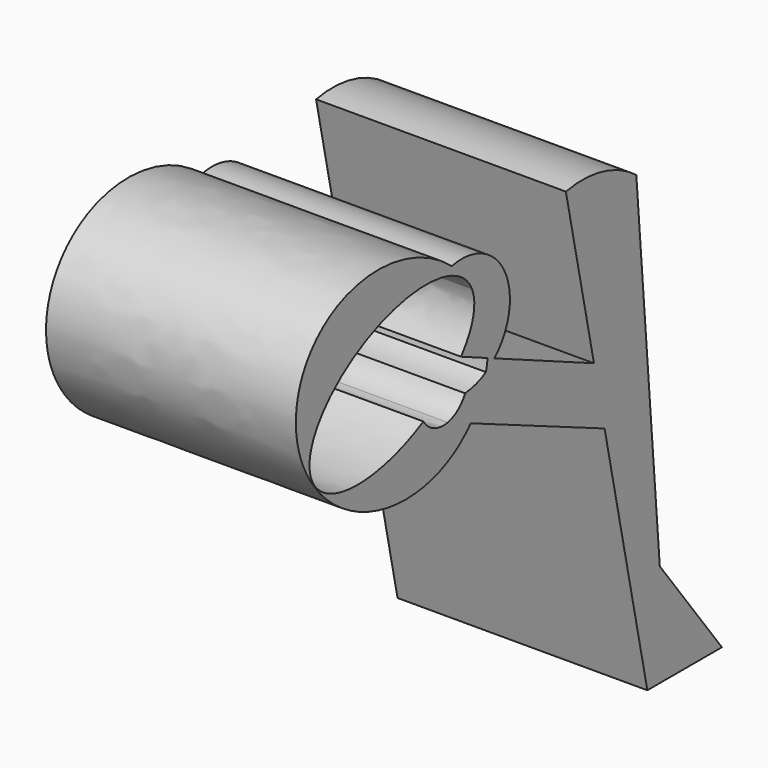
from build123d import *

# Parameters (mm, degrees)
F1_DEPTH = 134.366


with BuildPart() as f1:
    # F0 (on Right) → F1 (new body)
    with BuildSketch(Plane.YZ):
        with BuildLine():
            add(Edge.make_bspline(
                [(52.9576185242, -39.8017066897), (56.7917955179, -35.3999449299), (59.4162233174, -30.2441120148)],
                knots=[6.0764123097, 6.0764123097, 6.0764123097, 6.2831853072, 6.2831853072, 6.2831853072], degree=2, weights=[1, 0.9946603747, 1]))
            add(Edge.make_bspline(
                [(59.4162233174, -30.2441120148), (61.9584410831, -25.2497852376), (63.2614291599, -19.7504379506)],
                knots=[0, 0, 0, 0.2003397789, 0.2003397789, 0.2003397789], degree=2, weights=[1, 0.9949871903, 1]))
            ThreePointArc((63.2614291599, -19.7504379506), (56.4747551576, -22.7119475449), (49.1921255016, -24.0508980233))
            add(Edge.make_bspline(
                [(37.5332238168, -33.1098520281), (45.5664758872, -31.5379746925), (49.1921255016, -24.0508980233)],
                knots=[3.7738251561, 3.7738251561, 3.7738251561, 4.7123889804, 4.7123889804, 4.7123889804], degree=2, weights=[1, 0.8918932704, 1]))
            Line((37.5332238168, -33.1098520281), (52.9576185242, -39.8017066897))
        make_face()
        with BuildLine():
            add(Edge.make_bspline(
                [(59.4162233174, -30.2441120148), (61.9584410831, -25.2497852376), (63.2614291599, -19.7504379506)],
                knots=[0, 0, 0, 0.2003397789, 0.2003397789, 0.2003397789], degree=2, weights=[1, 0.9949871903, 1]))
            add(Edge.make_bspline(
                [(52.9576185242, -39.8017066897), (56.7917955179, -35.3999449299), (59.4162233174, -30.2441120148)],
                knots=[6.0764123097, 6.0764123097, 6.0764123097, 6.2831853072, 6.2831853072, 6.2831853072], degree=2, weights=[1, 0.9946603747, 1]))
            Line((52.9576185242, -39.8017066897), (142.9959279396, -78.8647164227))
            Line((142.9959279396, -78.8647164227), (135.8290441256, -45.0542887336))
            Line((135.8290441256, -45.0542887336), (68.9503520739, -15.5508760084))
            ThreePointArc((68.9503520739, -15.5508760084), (66.2210997632, -17.8067246745), (63.2614291599, -19.7504379506))
        make_face()
        with BuildLine():
            add(Edge.make_bspline(
                [(63.2614291599, -19.7504379506), (63.9888115577, -16.6804724711), (64.3145880563, -13.5058171875)],
                knots=[0.2003397789, 0.2003397789, 0.2003397789, 0.3124358581, 0.3124358581, 0.3124358581], degree=2, weights=[1, 0.9984297198, 1]))
            ThreePointArc((63.2614291599, -19.7504379506), (66.2210997632, -17.8067246745), (68.9503520739, -15.5508760084))
            Line((68.9503520739, -15.5508760084), (64.3145880563, -13.5058171875))
        make_face()
        with BuildLine():
            add(Edge.make_bspline(
                [(40.2635959663, 39.7926981892), (-87.3580346383, 147.0542081255), (-63.9062474873, 0.0061756271), (-40.4544603363, -147.0418568712), (52.9576185242, -39.8017066897)],
                knots=[1.300050122, 1.300050122, 1.300050122, 3.6882312159, 3.6882312159, 6.0764123097, 6.0764123097, 6.0764123097], degree=2, weights=[1, 0.3678592366, 1, 0.3678592366, 1]))
            Line((52.9576185242, -39.8017066897), (37.5332238168, -33.1098520281))
            add(Edge.make_bspline(
                [(21.1596586547, -26.0062009329), (26.8882127983, -35.192775782), (37.5332238168, -33.1098520281)],
                knots=[2.5905659748, 2.5905659748, 2.5905659748, 3.7738251561, 3.7738251561, 3.7738251561], degree=2, weights=[1, 0.8300329355, 1]))
            add(Edge.make_bspline(
                [(32.8487050816, 37.231628143), (-43.515539881, 50.6889506683), (-54.9979758387, -11.4311142158), (-66.4804117964, -73.5511790999), (21.1596586547, -26.0062009329)],
                knots=[0.6983315591, 0.6983315591, 0.6983315591, 2.7823688311, 2.7823688311, 4.8664061031, 4.8664061031, 4.8664061031], degree=2, weights=[1, 0.5044783468, 1, 0.5044783468, 1]))
            ThreePointArc((32.8487050816, 37.231628143), (36.4781496781, 38.7379936783), (40.2635959663, 39.7926981892))
        make_face()
        with BuildLine():
            Line((46.4871147638, -5.6412599382), (64.3145880563, -13.5058171875))
            add(Edge.make_bspline(
                [(64.3145880563, -13.5058171875), (67.4400861974, 16.9518101426), (40.2635959663, 39.7926981892)],
                knots=[0.3124358581, 0.3124358581, 0.3124358581, 1.300050122, 1.300050122, 1.300050122], degree=2, weights=[1, 0.8805347337, 1]))
            ThreePointArc((40.2635959663, 39.7926981892), (36.4781496781, 38.7379936783), (32.8487050816, 37.231628143))
            add(Edge.make_bspline(
                [(53.8459569216, 23.4609879553), (49.0933112893, 34.3689152969), (32.8487050816, 37.231628143)],
                knots=[0, 0, 0, 0.6983315591, 0.6983315591, 0.6983315591], degree=2, weights=[1, 0.9396584383, 1]))
            add(Edge.make_bspline(
                [(46.4871147638, -5.6412599382), (59.4663117422, 10.5615574568), (53.8459569216, 23.4609879553)],
                knots=[5.4700516742, 5.4700516742, 5.4700516742, 6.2831853072, 6.2831853072, 6.2831853072], degree=2, weights=[1, 0.9184839142, 1]))
        make_face()
        with BuildLine():
            add(Edge.make_bspline(
                [(64.3145880563, -13.5058171875), (67.4400861974, 16.9518101426), (40.2635959663, 39.7926981892)],
                knots=[0.3124358581, 0.3124358581, 0.3124358581, 1.300050122, 1.300050122, 1.300050122], degree=2, weights=[1, 0.8805347337, 1]))
            Line((64.3145880563, -13.5058171875), (68.9503520739, -15.5508760084))
            ThreePointArc((68.9503520739, -15.5508760084), (75.719196821, 23.0642083956), (40.2635959663, 39.7926981892))
        make_face()
        Polygon((135.8290441256, -45.0542887336), (142.9959279396, -78.8647164227), (174.6225650901, -92.5858940287), (172.0244634354, -61.0218317866), align=None)
        Polygon((174.6225650901, -92.5858940287), (142.9959279396, -78.8647164227), (171.7500537634, -214.5149260759), (221.8824923038, -214.5149260759), (200.9939625859, -186.8558004498), (180.105432868, -159.1966748238), align=None)
        with BuildLine():
            Line((116.9757023454, 43.8880696893), (135.8290441256, -45.0542887336))
            Line((135.8290441256, -45.0542887336), (172.0244634354, -61.0218317866))
            Line((172.0244634354, -61.0218317866), (164.3230021, 32.5424075127))
            ThreePointArc((164.3230021, 32.5424075127), (141.8677963571, 43.300004811), (116.9757023454, 43.8880696893))
        make_face()
    extrude(amount=F1_DEPTH)


solid = f1.part
